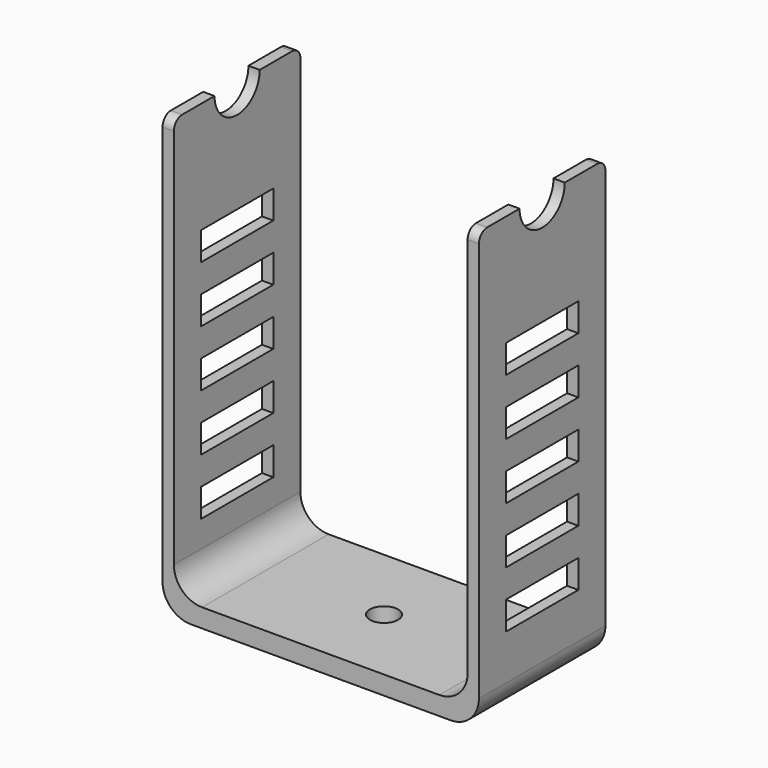
from build123d import *

# Parameters (mm, degrees)
F0_W     = 16
F0_H     = 5
F1_DEPTH = 28
F2_W     = 52
F2_H     = 49.263156
F3_DEPTH = 74.4
F4_R     = 5
F5_R     = 2.5
F6_DEPTH = 3.301


with BuildPart() as f1:
    # F0 (on Right) → F1 (new body, symmetric)
    with BuildSketch(Plane.YZ):
        with BuildLine():
            Line((-14, 75.869719), (-14, 0))
            Line((-14, 0), (14, 0))
            Line((14, 0), (14, 75.869719))
            ThreePointArc((14, 75.869719), (13.463923, 77.163923), (12.169719, 77.7))
            Line((12.169719, 77.7), (5, 77.7))
            ThreePointArc((5, 77.7), (0, 72.7), (-5, 77.7))
            Line((-5, 77.7), (-12.169719, 77.7))
            ThreePointArc((-12.169719, 77.7), (-13.463923, 77.163923), (-14, 75.869719))
        make_face()
        with Locations((0, 15.5)):
            Rectangle(F0_W, F0_H, mode=Mode.SUBTRACT)
        with Locations((0, 25.5)):
            Rectangle(F0_W, F0_H, mode=Mode.SUBTRACT)
        with Locations((0, 35.5)):
            Rectangle(F0_W, F0_H, mode=Mode.SUBTRACT)
        with Locations((0, 45.5)):
            Rectangle(F0_W, F0_H, mode=Mode.SUBTRACT)
        with Locations((0, 55.5)):
            Rectangle(F0_W, F0_H, mode=Mode.SUBTRACT)
    extrude(amount=F1_DEPTH, both=True)

    # F2 (on face) → F3 (cut)
    with BuildSketch(Plane.XY.offset(77.7)):
        with Locations((0, 0.389209)):
            Rectangle(F2_W, F2_H)
    extrude(amount=-F3_DEPTH, mode=Mode.SUBTRACT)

    # F4
    f4_edges = [f1.edges().sort_by_distance(p)[0] for p in [
        (-28, 0, 0),
        (28, 0, 0),
        (-26, 0, 3.3),
        (26, 0, 3.3),
    ]]
    fillet(f4_edges, radius=F4_R)

    # F5 (on face) → F6 (cut, through all)
    with BuildSketch(Plane.XY.offset(3.3)):
        Circle(F5_R)
    extrude(amount=-F6_DEPTH, mode=Mode.SUBTRACT)


solid = f1.part
